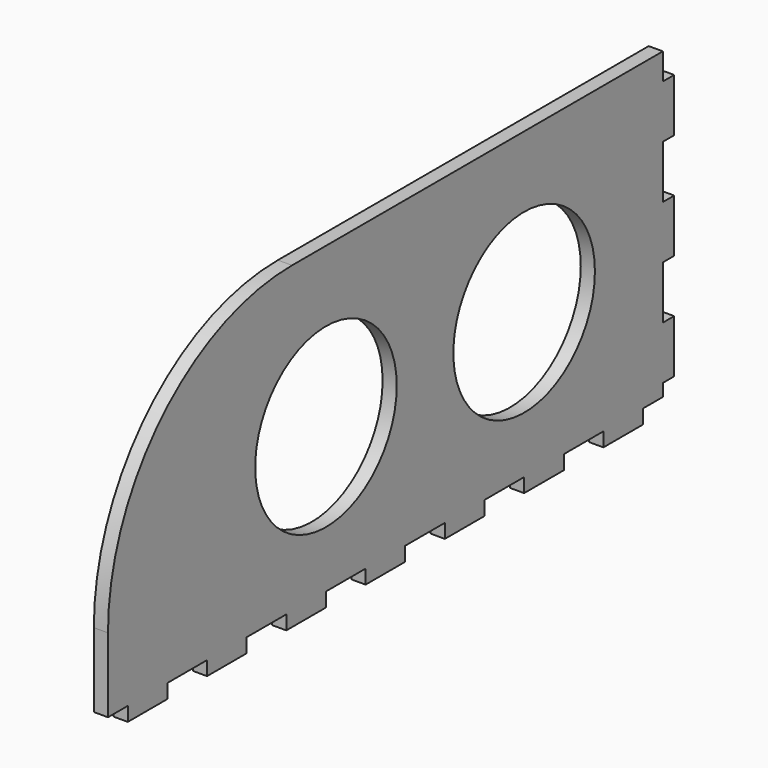
from build123d import *

# Parameters (mm, degrees)
SKETCH080_W     = 200
SKETCH080_H     = 90
PAD040_DEPTH    = 4
SKETCH081_R     = 25
SKETCH081_W     = 7
SKETCH081_H     = 4
SKETCH081_W_2   = 14
SKETCH081_W_3   = 4
SKETCH081_H_2   = 15
SKETCH081_H_3   = 7.5
POCKET036_DEPTH = 4
FILLET005_R     = 65


with BuildPart() as part:
    # Sketch080 → Pad040 (new body)
    with BuildSketch(Plane.YZ):
        Rectangle(SKETCH080_W, SKETCH080_H)
    extrude(amount=PAD040_DEPTH)

    # Sketch081 (on Face6 of Pad040) → Pocket036 (cut)
    with BuildSketch(Plane.YZ.offset(4)):
        with Locations((-23, 0)):
            Circle(SKETCH081_R)
        with Locations((47, 0)):
            Circle(SKETCH081_R)
        with Locations((-96.5, -43)):
            Rectangle(SKETCH081_W, SKETCH081_H)
        with Locations((-72, -43)):
            Rectangle(SKETCH081_W_2, SKETCH081_H)
        with Locations((-44, -43)):
            Rectangle(SKETCH081_W_2, SKETCH081_H)
        with Locations((-16, -43)):
            Rectangle(SKETCH081_W_2, SKETCH081_H)
        with Locations((12, -43)):
            Rectangle(SKETCH081_W_2, SKETCH081_H)
        with Locations((40, -43)):
            Rectangle(SKETCH081_W_2, SKETCH081_H)
        with Locations((68, -43)):
            Rectangle(SKETCH081_W_2, SKETCH081_H)
        with Locations((98, -15)):
            Rectangle(SKETCH081_W_3, SKETCH081_H_2)
        with Locations((98, 15)):
            Rectangle(SKETCH081_W_3, SKETCH081_H_2)
        with Locations((98, 41.25)):
            Rectangle(SKETCH081_W_3, SKETCH081_H_3)
        Polygon((89, -45), (89, -41), (96, -41), (96, -37.5), (100, -37.5), (100, -45), align=None)
    extrude(amount=-POCKET036_DEPTH, mode=Mode.SUBTRACT)

    # Fillet005
    fillet005_edges = [part.edges().sort_by_distance(p)[0] for p in [
        (2, -100, 45),
    ]]
    fillet(fillet005_edges, radius=FILLET005_R)


with BuildPart() as part_1:
    # Body040 placement: moved
    add(part.part.moved(Location((327, -402, 0))))


solid = part_1.part
